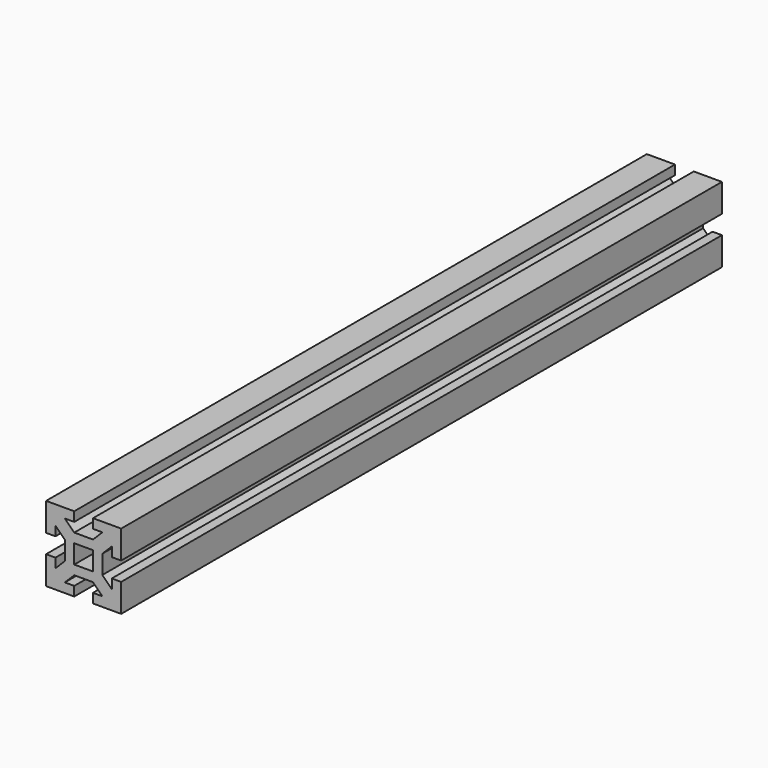
from build123d import *

# Parameters (mm, degrees)
F1_DEPTH = 400


with BuildPart() as f1:
    # F0 (on Front) → F1 (new body)
    with BuildSketch(Plane.XZ):
        Polygon((20, 5), (20, 20), (5, 20), (5, 15), (10, 15), (5, 10), (-5, 10), (-10, 15), (-5, 15), (-5, 20), (-20, 20), (-20, 5), (-15, 5), (-15, 10), (-10, 5), (-10, -5), (-15, -10), (-15, -5), (-20, -5), (-20, -20), (-5, -20), (-5, -15), (-10, -15), (-5, -10), (5, -10), (10, -15), (5, -15), (5, -20), (20, -20), (20, -5), (15, -5), (15, -10), (10, -5), (10, 5), (15, 10), (15, 5), align=None)
        Polygon((-5, 0), (-5, 5), (0, 5), (5, 5), (5, 0), (5, -5), (0, -5), (-5, -5), align=None, mode=Mode.SUBTRACT)
    extrude(amount=F1_DEPTH)


solid = f1.part
